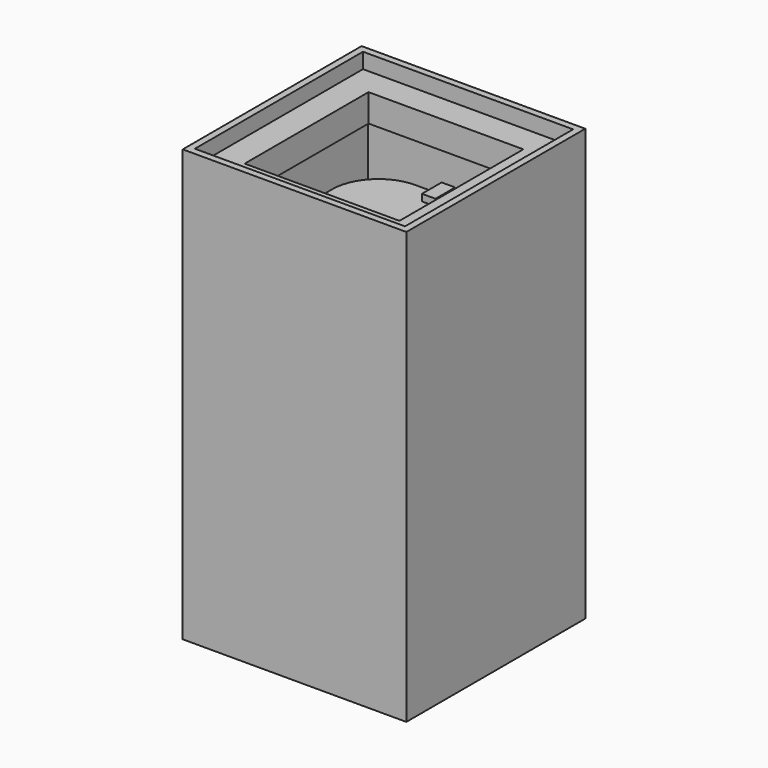
from build123d import *

# Parameters (mm, degrees)
F7_DEPTH  = 153
F8_R      = 3
F9_DEPTH  = 25
F11_W     = 40
F11_H     = 243
F12_DEPTH = 22
F13_W     = 40
F13_H     = 40
F14_DEPTH = 10
F17_W     = 242
F17_H     = 242
F18_DEPTH = 11
F19_W     = 80
F19_H     = 22
F20_DEPTH = 22
F22_R     = 75
F23_COUNT = 4
F25_DEPTH = 40
F27_W     = 364
F27_H     = 364
F27_W_2   = 342
F27_H_2   = 342
F28_DEPTH = 351
F29_W     = 342
F29_H     = 342
F29_R     = 75
F30_DEPTH = 11
F31_W     = 342
F31_H     = 342
F31_R     = 75
F32_DEPTH = 40
F34_W     = 342
F34_H     = 342
F34_W_2   = 252
F34_H_2   = 252
F35_DEPTH = 45
F37_W     = 342
F37_H     = 342
F37_W_2   = 262
F37_H_2   = 262
F38_DEPTH = 581


with BuildPart() as f4:
    # F3 (on Front) → F4 (revolve)
    with BuildSketch(Plane.XZ):
        Polygon((0, -110), (0, 110), (-50, 110), (-50, 95), (-120, 25), (-120, -25), (-50, -95), (-50, -110), align=None)
    revolve(axis=Axis((0, 0, 0), (0, 0, 1)))

    # F6 (on offset) → F7 (join)
    with BuildSketch(Plane.XY.offset(-110)):
        Polygon((80, 40), (82, 40), (82, 138), (100, 138), (100, 140), (80, 140), align=None)
        Polygon((-82, 40), (-80, 40), (-80, 140), (-100, 140), (-100, 138), (-82, 138), align=None)
    extrude(amount=F7_DEPTH)

    # F8 (on face) → F9 (cut)
    with BuildSketch(Plane(origin=(0, 140, 0), x_dir=(-1, 0, 0), z_dir=(0, 1, 0))):
        with Locations((-90, 33)):
            Circle(F8_R)
        with Locations((-90, -99.2209836841)):
            Circle(F8_R)
        with Locations((90, -99.2209836841)):
            Circle(F8_R)
        with Locations((90, 33)):
            Circle(F8_R)
    extrude(amount=-F9_DEPTH, mode=Mode.SUBTRACT)


with BuildPart() as f12:
    # F11 (on mid) → F12 (new body)
    with BuildSketch(Plane(origin=(0, 139, 0), x_dir=(-1, 0, 0), z_dir=(0, 1, 0))):
        with Locations((-90, -38.5)):
            Rectangle(F11_W, F11_H)
    extrude(amount=F12_DEPTH)

    # F13 (on face) → F14 (join)
    with BuildSketch(Plane(origin=(0, 161, 0), x_dir=(-1, 0, 0), z_dir=(0, 1, 0))):
        with Locations((-90, 63)):
            Rectangle(F13_W, F13_H)
        with Locations((-90, -140)):
            Rectangle(F13_W, F13_H)
    extrude(amount=F14_DEPTH)


with BuildPart() as f15_1:
    # F15: instance of F12
    add(f12.part.mirror(Plane.YZ))


with BuildPart() as f18:
    # F17 (on offset) → F18 (new body)
    with BuildSketch(Plane.XY.offset(210)):
        Rectangle(F17_W, F17_H)
    extrude(amount=F18_DEPTH)


with BuildPart() as f20:
    # F19 (on face) → F20 (new body)
    with BuildSketch(Plane(origin=(0, 0, 210), x_dir=(1, 0, 0), z_dir=(0, 0, -1))):
        with Locations((-131, 0)):
            Rectangle(F19_W, F19_H)
    extrude(amount=-F20_DEPTH)

    # F21: cut F18
    add(f18.part, mode=Mode.SUBTRACT)


with BuildPart() as f18_1:
    add(f18.part)

    # F22
    f22_edges = [f18_1.edges().sort_by_distance(p)[0] for p in [
        (-121, 121, 215.5),
        (121, 121, 215.5),
        (-121, -121, 215.5),
        (121, -121, 215.5),
    ]]
    fillet(f22_edges, radius=F22_R)


with BuildPart() as f23_1:
    # F23: instance of F20
    add(f20.part.rotate(Axis((0, 0, -110), (0, 0, 1)), 1 * 360 / F23_COUNT))


with BuildPart() as f23_2:
    # F23: instance of F20
    add(f20.part.rotate(Axis((0, 0, -110), (0, 0, 1)), 2 * 360 / F23_COUNT))


with BuildPart() as f23_3:
    # F23: instance of F20
    add(f20.part.rotate(Axis((0, 0, -110), (0, 0, 1)), 3 * 360 / F23_COUNT))


with BuildPart() as f25:
    # F24 (on face) → F25 (new body)
    with BuildSketch(Plane(origin=(0, 0, 210), x_dir=(1, 0, 0), z_dir=(0, 0, -1))):
        with BuildLine():
            ThreePointArc((-121, -46), (-99.033008589, -99.033008589), (-46, -121))
            Line((-46, -121), (46, -121))
            ThreePointArc((46, -121), (99.033008589, -99.033008589), (121, -46))
            Line((121, -46), (121, 46))
            ThreePointArc((121, 46), (99.033008589, 99.033008589), (46, 121))
            Line((46, 121), (-46, 121))
            ThreePointArc((-46, 121), (-99.033008589, 99.033008589), (-121, 46))
            Line((-121, 46), (-121, -46))
        make_face()
    extrude(amount=F25_DEPTH)


with BuildPart() as f26_1:
    # F26: instance of F18
    add(f18_1.part.mirror(Plane.XY))


with BuildPart() as f26_2:
    # F26: instance of F20
    add(f20.part.mirror(Plane.XY))


with BuildPart() as f26_3:
    # F26: instance of F23_3
    add(f23_3.part.mirror(Plane.XY))


with BuildPart() as f26_4:
    # F26: instance of F23_2
    add(f23_2.part.mirror(Plane.XY))


with BuildPart() as f26_5:
    # F26: instance of F23_1
    add(f23_1.part.mirror(Plane.XY))


with BuildPart() as f26_6:
    # F26: instance of F25
    add(f25.part.mirror(Plane.XY))


with BuildPart() as f28:
    # F27 (on Top) → F28 (new body, symmetric)
    with BuildSketch(Plane.XY):
        Rectangle(F27_W, F27_H)
        Rectangle(F27_W_2, F27_H_2, mode=Mode.SUBTRACT)
    extrude(amount=F28_DEPTH, both=True)


with BuildPart() as f30:
    # F29 (on face) → F30 (new body)
    with BuildSketch(Plane(origin=(0, 0, -351), x_dir=(1, 0, 0), z_dir=(0, 0, -1))):
        Rectangle(F29_W, F29_H)
        Circle(F29_R, mode=Mode.SUBTRACT)
    extrude(amount=-F30_DEPTH)


with BuildPart() as f32:
    # F31 (on face) → F32 (new body)
    with BuildSketch(Plane.XY.offset(-340)):
        Rectangle(F31_W, F31_H)
        Circle(F31_R, mode=Mode.SUBTRACT)
    extrude(amount=F32_DEPTH)


with BuildPart() as f35:
    # F34 (on offset) → F35 (new body)
    with BuildSketch(Plane.XY.offset(281)):
        Rectangle(F34_W, F34_H)
        Rectangle(F34_W_2, F34_H_2, mode=Mode.SUBTRACT)
    extrude(amount=F35_DEPTH)


with BuildPart() as f38:
    # F37 (on offset) → F38 (new body, through all)
    with BuildSketch(Plane.XY.offset(281)):
        Rectangle(F37_W, F37_H)
        Rectangle(F37_W_2, F37_H_2, mode=Mode.SUBTRACT)
    extrude(amount=-F38_DEPTH)


solid = Compound([f4.part, f12.part, f15_1.part, f20.part, f18_1.part, f23_1.part, f23_2.part, f23_3.part, f25.part, f26_1.part, f26_2.part, f26_3.part, f26_4.part, f26_5.part, f26_6.part, f28.part, f30.part, f32.part, f35.part, f38.part])
